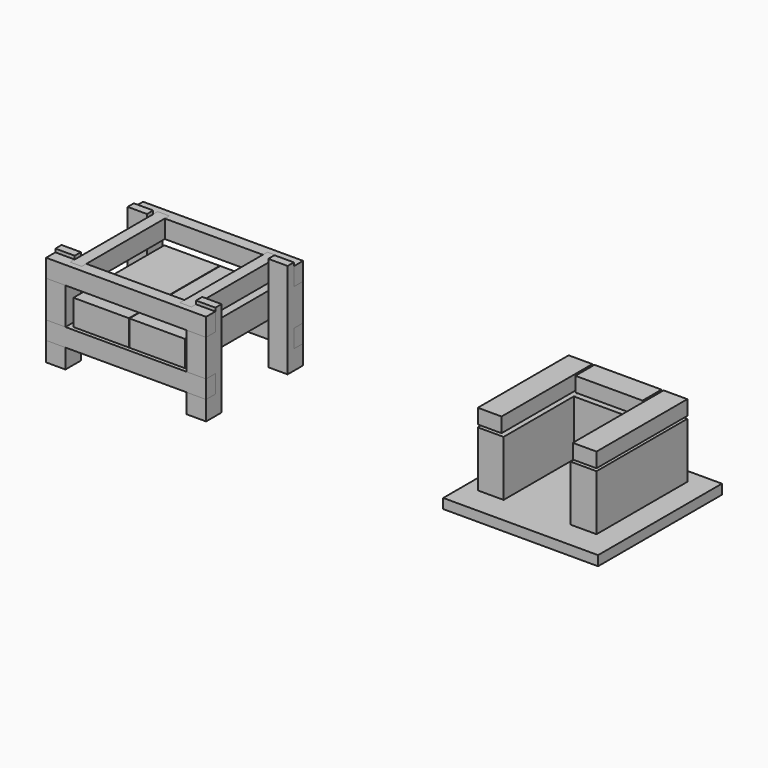
from build123d import *

# Parameters (mm, degrees)
F0_W      = 75
F0_H      = 75
F1_DEPTH  = 370
F2_W      = 45
F2_H      = 204.2819981575
F2_W_2    = 53.7973015904
F2_H_2    = 70
F3_DEPTH  = 620.001
F4_W      = 45
F4_H      = 70
F5_DEPTH  = 620
F6_W      = 45
F6_H      = 22
F7_DEPTH  = 70
F8_W      = 45
F8_H      = 424
F9_DEPTH  = 70
F12_DEPTH = 220
F13_W     = 600
F13_H     = 600
F14_DEPTH = 38
F16_START = -80
F15_W     = 100
F15_H     = 215
F16_DEPTH = 440
F15_W_2   = 92
F15_H_2   = 57
F17_W     = 100
F17_H     = 215
F18_DEPTH = 260
F17_W_2   = 92
F17_H_2   = 57


with BuildPart() as f1:
    # F0 (on Top) → F1 (new body)
    with BuildSketch(Plane.XY):
        with Locations((-37.5, 37.5)):
            Rectangle(F0_W, F0_H)
    extrude(amount=F1_DEPTH)


with BuildPart() as f1b:
    # F0 (on Top) → F1, piece 2 (new body)
    with BuildSketch(Plane.XY):
        with Locations((-37.5, 432.5)):
            Rectangle(F0_W, F0_H)
    extrude(amount=F1_DEPTH)


with BuildPart() as f1c:
    # F0 (on Top) → F1, piece 3 (new body)
    with BuildSketch(Plane.XY):
        with Locations((507.5, 432.5)):
            Rectangle(F0_W, F0_H)
    extrude(amount=F1_DEPTH)


with BuildPart() as f1d:
    # F0 (on Top) → F1, piece 4 (new body)
    with BuildSketch(Plane.XY):
        with Locations((507.5, 37.5)):
            Rectangle(F0_W, F0_H)
    extrude(amount=F1_DEPTH)


with BuildPart() as f3_tool:
    # F2 (on face) → F3 (new body, through all)
    with BuildSketch(Plane.YZ.offset(545)):
        with Locations((22.5, 389.1409990788)):
            Rectangle(F2_W, F2_H)
        with Locations((447.5, 389.1409990788)):
            Rectangle(F2_W, F2_H)
        with Locations((18.1013492048, 110)):
            Rectangle(F2_W_2, F2_H_2)
        with Locations((451.8986507952, 110)):
            Rectangle(F2_W_2, F2_H_2)
    extrude(amount=-F3_DEPTH)


with BuildPart() as f1_1:
    add(f1.part)

    # F3: cut by f3_tool
    add(f3_tool.part, mode=Mode.SUBTRACT)


with BuildPart() as f1b_1:
    add(f1b.part)

    # F3: cut by f3_tool
    add(f3_tool.part, mode=Mode.SUBTRACT)


with BuildPart() as f1c_1:
    add(f1c.part)

    # F3: cut by f3_tool
    add(f3_tool.part, mode=Mode.SUBTRACT)


with BuildPart() as f1d_1:
    add(f1d.part)

    # F3: cut by f3_tool
    add(f3_tool.part, mode=Mode.SUBTRACT)


with BuildPart() as f5:
    # F4 (on face) → F5 (new body, through all)
    with BuildSketch(Plane.YZ.offset(545)):
        with Locations((22.5, 322)):
            Rectangle(F4_W, F4_H)
    extrude(amount=-F5_DEPTH)


with BuildPart() as f5b:
    # F4 (on face) → F5, piece 2 (new body, through all)
    with BuildSketch(Plane.YZ.offset(545)):
        with Locations((22.5, 110)):
            Rectangle(F4_W, F4_H)
    extrude(amount=-F5_DEPTH)


with BuildPart() as f5c:
    # F4 (on face) → F5, piece 3 (new body, through all)
    with BuildSketch(Plane.YZ.offset(545)):
        with Locations((447.5, 110)):
            Rectangle(F4_W, F4_H)
    extrude(amount=-F5_DEPTH)


with BuildPart() as f5d:
    # F4 (on face) → F5, piece 4 (new body, through all)
    with BuildSketch(Plane.YZ.offset(545)):
        with Locations((447.5, 322)):
            Rectangle(F4_W, F4_H)
    extrude(amount=-F5_DEPTH)


with BuildPart() as f7_tool:
    # F6 (on face) → F7 (new body)
    with BuildSketch(Plane.XY.offset(357)):
        with Locations((447.5, 34)):
            Rectangle(F6_W, F6_H)
        with Locations((22.5, 34)):
            Rectangle(F6_W, F6_H)
        with Locations((447.5, 436)):
            Rectangle(F6_W, F6_H)
        with Locations((22.5, 436)):
            Rectangle(F6_W, F6_H)
    extrude(amount=-F7_DEPTH)


with BuildPart() as f5_1:
    add(f5.part)

    # F7: cut by f7_tool
    add(f7_tool.part, mode=Mode.SUBTRACT)


with BuildPart() as f5d_1:
    add(f5d.part)

    # F7: cut by f7_tool
    add(f7_tool.part, mode=Mode.SUBTRACT)


with BuildPart() as f9:
    # F8 (on face) → F9 (new body, through all)
    with BuildSketch(Plane.XY.offset(357)):
        with Locations((22.5, 235)):
            Rectangle(F8_W, F8_H)
    extrude(amount=-F9_DEPTH)


with BuildPart() as f9b:
    # F8 (on face) → F9, piece 2 (new body, through all)
    with BuildSketch(Plane.XY.offset(357)):
        with Locations((447.5, 235)):
            Rectangle(F8_W, F8_H)
    extrude(amount=-F9_DEPTH)


with BuildPart() as f12:
    # F11 (on offset) → F12 (new body, symmetric)
    with BuildSketch(Plane.XZ.offset(-235)):
        Polygon((19, 245), (19, 145), (215, 145), (234, 145), (234, 245), align=None)
    extrude(amount=F12_DEPTH, both=True)


with BuildPart() as f12b:
    # F11 (on offset) → F12, piece 2 (new body, symmetric)
    with BuildSketch(Plane.XZ.offset(-235)):
        Polygon((236, 245), (236, 145), (255, 145), (451, 145), (451, 245), align=None)
    extrude(amount=F12_DEPTH, both=True)


with BuildPart() as f14:
    # F13 (on Top) → F14 (new body)
    with BuildSketch(Plane.XY):
        with Locations((1764.0600681305, 300)):
            Rectangle(F13_W, F13_H)
    extrude(amount=F14_DEPTH)


with BuildPart() as f16:
    # F15 (on Front) → F16 (new body)
    with BuildSketch(Plane.XZ.offset(F16_START)):
        with Locations((1584.0600681305, 161.5)):
            Rectangle(F15_W, F15_H)
    extrude(amount=-F16_DEPTH)


with BuildPart() as f16b:
    # F15 (on Front) → F16, piece 2 (new body)
    with BuildSketch(Plane.XZ.offset(F16_START)):
        with Locations((1944.0600681305, 161.5)):
            Rectangle(F15_W, F15_H)
    extrude(amount=-F16_DEPTH)


with BuildPart() as f16c:
    # F15 (on Front) → F16, piece 3 (new body)
    with BuildSketch(Plane.XZ.offset(F16_START)):
        Polygon((1534.0600681305, 336), (1534.0600681305, 279), (1564.0600681305, 279), (1626.0600681305, 279), (1626.0600681305, 336), align=None)
    extrude(amount=-F16_DEPTH)


with BuildPart() as f16d:
    # F15 (on Front) → F16, piece 4 (new body)
    with BuildSketch(Plane.XZ.offset(F16_START)):
        with Locations((1948.0600681305, 307.5)):
            Rectangle(F15_W_2, F15_H_2)
    extrude(amount=-F16_DEPTH)


with BuildPart() as f18:
    # F17 (on face) → F18 (new body, through all)
    with BuildSketch(Plane.YZ.offset(1634.0600681305)):
        with Locations((470, 161.5)):
            Rectangle(F17_W, F17_H)
    extrude(amount=F18_DEPTH)


with BuildPart() as f18b:
    # F17 (on face) → F18, piece 2 (new body, through all)
    with BuildSketch(Plane.YZ.offset(1634.0600681305)):
        with Locations((474, 307.5)):
            Rectangle(F17_W_2, F17_H_2)
    extrude(amount=F18_DEPTH)


solid = Compound([f1_1.part, f1b_1.part, f1c_1.part, f1d_1.part, f5b.part, f5c.part, f5_1.part, f5d_1.part, f9.part, f9b.part, f12.part, f12b.part, f14.part, f16.part, f16b.part, f16c.part, f16d.part, f18.part, f18b.part])
